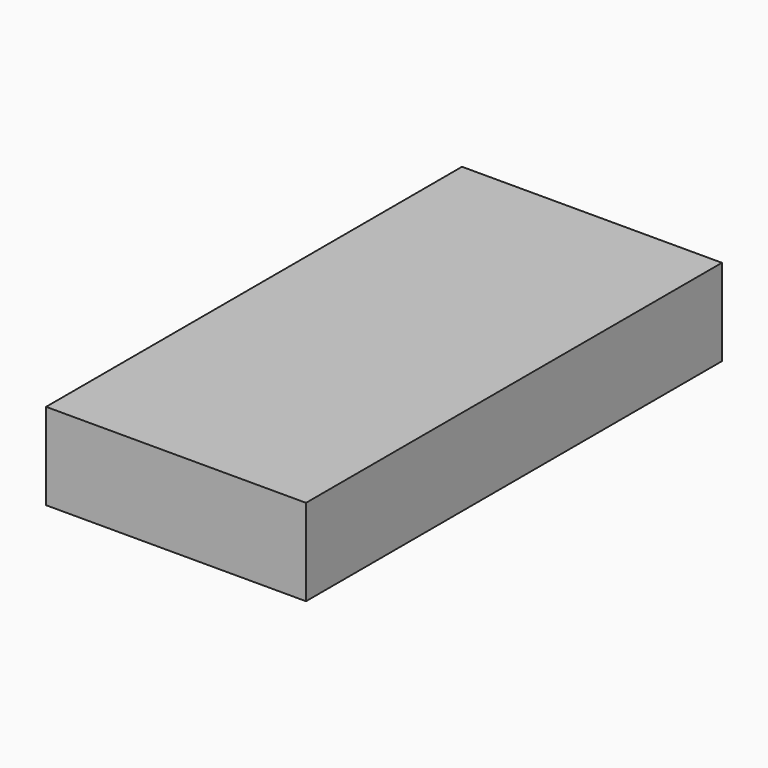
from build123d import *

# Parameters (mm, degrees)
F1_DEPTH      = 25.4
F2_W          = 25.4
F2_H          = 151.361592114
F3_DEPTH      = 25.4
F3_DEPTH_BACK = 12.7


with BuildPart() as f1:
    # F0 (on Top) → F1 (new body)
    with BuildSketch(Plane.XY):
        Polygon((-78.5694792867, 128.1253882145), (-102.9380111005, 128.1253882145), (-102.9380111005, -24.2746117855), (-78.5694792867, -24.2746117855), (-53.1694792867, -24.2746117855), (-26.7380111005, -24.2746117855), (-26.7380111005, 128.1253882145), (-53.1694792867, 128.1253882145), align=None)
    extrude(amount=F1_DEPTH)

    # F2 (on Top) → F3 (cut, two sides)
    with BuildSketch(Plane.XY) as f3_sk:
        with Locations((-63.6879849851, 52.0857237279)):
            Rectangle(F2_W, F2_H)
    extrude(amount=-F3_DEPTH, mode=Mode.SUBTRACT)
    extrude(f3_sk.sketch, amount=F3_DEPTH_BACK, mode=Mode.SUBTRACT)


solid = f1.part
